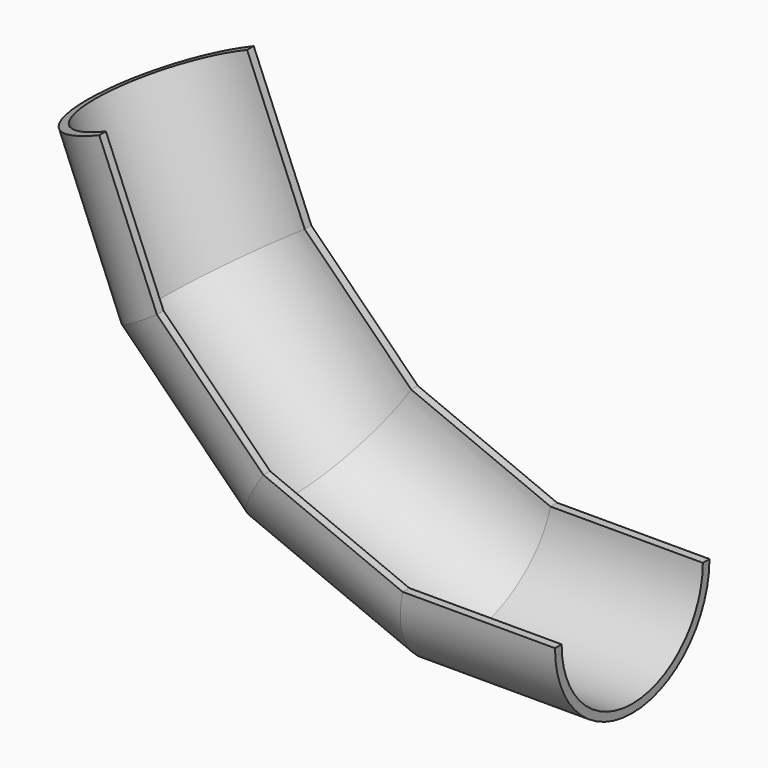
from build123d import *


with BuildPart() as f3:
    # F3: sweep along a path in F0
    with BuildLine(Plane.XZ) as f3_path:
        Line((0, -183.805903785), (139.1482145694, -519.7394105784))
        Line((139.1482145694, -519.7394105784), (396.2605894216, -776.8517854306))
        Line((396.2605894216, -776.8517854306), (732.194096215, -916))
        Line((732.194096215, -916), (1100, -916))
    # F2 (on line) → F3 (sweep)
    with BuildSketch(Plane.YZ.offset(1100)):
        with BuildLine():
            ThreePointArc((213, -916), (0, -1129), (-213, -916))
            Line((-213, -916), (-233, -916))
            ThreePointArc((-233, -916), (0, -1149), (233, -916))
            Line((233, -916), (213, -916))
        make_face()
    sweep(path=f3_path.line, transition=Transition.RIGHT)


solid = f3.part
